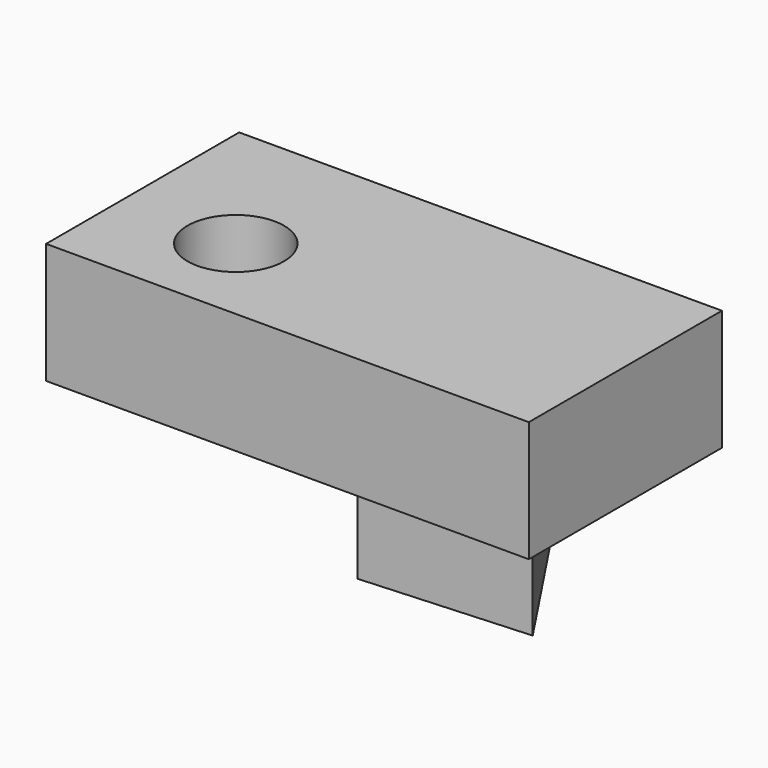
from build123d import *

# Parameters (mm, degrees)
F0_W     = 100
F0_H     = 50
F1_DEPTH = 25
F2_R     = 10
F3_DEPTH = 25.001
F5_DEPTH = 25


with BuildPart() as f1:
    # F0 (on Top) → F1 (new body)
    with BuildSketch(Plane.XY):
        with Locations((42.712342, 58.077995)):
            Rectangle(F0_W, F0_H)
    extrude(amount=F1_DEPTH)

    # F2 (on face) → F3 (cut, through all)
    with BuildSketch(Plane.XY.offset(25)):
        with Locations((16.594408, 52.342981)):
            Circle(F2_R)
    extrude(amount=-F3_DEPTH, mode=Mode.SUBTRACT)

    # F4 (on face) → F5 (join)
    with BuildSketch(Plane(origin=(0, 0, 0), x_dir=(1, 0, 0), z_dir=(0, 0, -1))):
        Polygon((45.338004, -47.928774), (60.75959, -78.947715), (79.911988, -50.082759), align=None)
    extrude(amount=F5_DEPTH)


solid = f1.part
